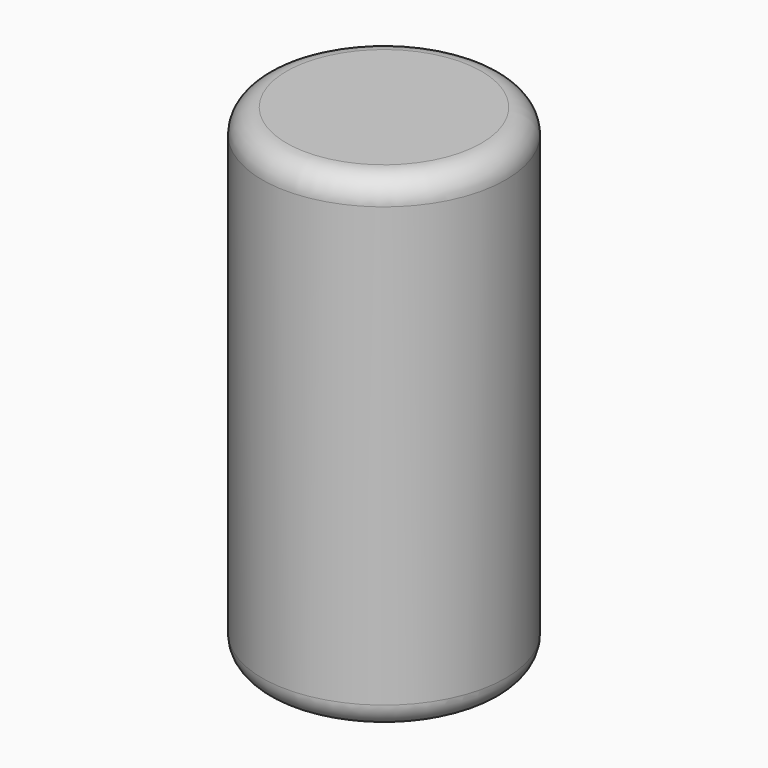
from build123d import *


with BuildPart() as f1:
    # F0 (on Front) → F1 (revolve)
    with BuildSketch(Plane.XZ):
        with BuildLine():
            Line((1.35, 15), (1.35, 0))
            Line((1.35, 0), (8, 0))
            ThreePointArc((8, 0), (9.414214, 0.585786), (10, 2))
            Line((10, 2), (10, 38))
            ThreePointArc((10, 38), (9.414214, 39.414214), (8, 40))
            Line((8, 40), (0, 40))
            Line((0, 40), (0, 15))
            Line((0, 15), (1.35, 15))
        make_face()
    revolve(axis=Axis((0, 0, 6.527337), (0, 0, 1)))


solid = f1.part
